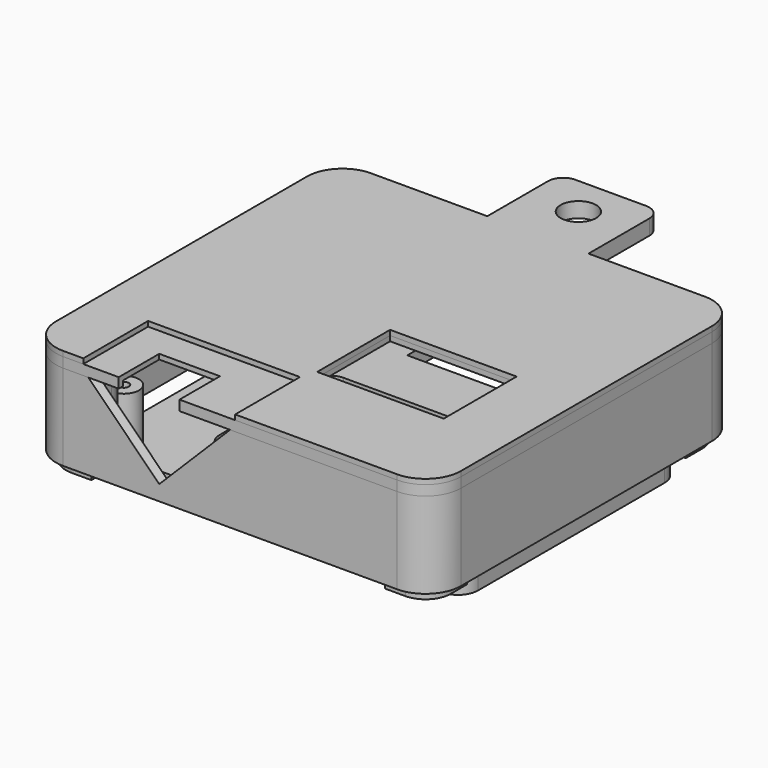
from build123d import *

# Parameters (mm, degrees)
PAD006_DEPTH         = 3
SKETCH008_R          = 3
SKETCH008_R_2        = 1
PAD007_DEPTH         = 10
PAD013_DEPTH         = 3
SKETCH021_R          = 3.5
PAD014_DEPTH         = 3
BOX001_W             = 3
BOX001_H             = 3
BOX001_DEPTH         = 10
PAD008_DEPTH         = 2
PAD009_DEPTH         = 18
SKETCH014_W          = 25
SKETCH014_H          = 18
POCKET002_DEPTH      = 2
POCKET003_DEPTH      = 2
PAD_DEPTH            = 20
SKETCH018_R          = 1.5
POCKET004_DEPTH      = 10
CYLINDER_R           = 5
CYLINDER_DEPTH       = 5
SKETCH019_R          = 3.5
PAD012_DEPTH         = 3
BOX_W                = 30
BOX_H                = 16
BOX_DEPTH            = 2
SKETCH011_R          = 1
PAD010_DEPTH         = 1
PAD011_DEPTH         = 1
SKETCH013_W          = 25
SKETCH013_H          = 18
POCKET_DEPTH         = 1.001
POCKET_DEPTH_BACK    = -1.001
SKETCH_W             = 12
SKETCH_H             = 12
POCKET001_DEPTH      = 1.001
POCKET001_DEPTH_BACK = -1.001


with BuildPart() as base:
    # Sketch007 → Pad006 (new body)
    with BuildSketch(Plane.XY):
        with BuildLine():
            Line((-37, 23), (-37, -23))
            ThreePointArc((-37, -23), (-35.828427, -25.828427), (-33, -27))
            Line((-33, -27), (33, -27))
            ThreePointArc((33, -27), (35.828427, -25.828427), (37, -23))
            Line((37, -23), (37, 23))
            ThreePointArc((37, 23), (35.828427, 25.828427), (33, 27))
            Line((33, 27), (-33, 27))
            ThreePointArc((-33, 27), (-35.828427, 25.828427), (-37, 23))
        make_face()
        with BuildLine():
            Line((-23, 12), (-23, -12))
            ThreePointArc((-23, -12), (-22.12132, -14.12132), (-20, -15))
            Line((-20, -15), (20, -15))
            ThreePointArc((20, -15), (22.12132, -14.12132), (23, -12))
            Line((23, -12), (23, 12))
            ThreePointArc((23, 12), (22.12132, 14.12132), (20, 15))
            Line((20, 15), (-20, 15))
            ThreePointArc((-20, 15), (-22.12132, 14.12132), (-23, 12))
        make_face(mode=Mode.SUBTRACT)
    extrude(amount=-PAD006_DEPTH)

    # Sketch008 → Pad007 (join)
    with BuildSketch(Plane.XY):
        with Locations((-33, 23)):
            Circle(SKETCH008_R)
        with Locations((-33, 23)):
            Circle(SKETCH008_R_2, mode=Mode.SUBTRACT)
        with Locations((33, 23)):
            Circle(SKETCH008_R)
        with Locations((33, 23)):
            Circle(SKETCH008_R_2, mode=Mode.SUBTRACT)
        with Locations((33, -23)):
            Circle(SKETCH008_R)
        with Locations((33, -23)):
            Circle(SKETCH008_R_2, mode=Mode.SUBTRACT)
        with Locations((-33, -23)):
            Circle(SKETCH008_R)
        with Locations((-33, -23)):
            Circle(SKETCH008_R_2, mode=Mode.SUBTRACT)
    extrude(amount=PAD007_DEPTH)

    # Sketch020 → Pad013 (join)
    with BuildSketch(Plane.XY):
        with BuildLine():
            Line((-37, 38), (-37, 23))
            Line((-37, 23), (-17, 23))
            Line((-17, 23), (-17, 38))
            ThreePointArc((-17, 38), (-17.87868, 40.12132), (-20, 41))
            Line((-34, 41), (-20, 41))
            ThreePointArc((-34, 41), (-36.12132, 40.12132), (-37, 38))
        make_face()
    extrude(amount=-PAD013_DEPTH)

    # Sketch021 → Pad014 (join)
    with BuildSketch(Plane.YZ.offset(-34)):
        with BuildLine():
            Line((41, 0), (41, 10))
            ThreePointArc((41, 10), (33.5, 17.5), (26, 10))
            Line((26, 10), (26, 0))
            Line((26, 0), (41, 0))
        make_face()
        with Locations((33.5, 10)):
            Circle(SKETCH021_R, mode=Mode.SUBTRACT)
    extrude(amount=PAD014_DEPTH)

    # Box001 → Box001 (join)
    with BuildSketch(Plane(origin=(-34, 24, 0), x_dir=(1, 0, 0), z_dir=(0, 0, 1))):
        with Locations((1.5, 1.5)):
            Rectangle(BOX001_W, BOX001_H)
    extrude(amount=BOX001_DEPTH)


with BuildPart() as top:
    # Sketch009 → Pad008 (new body)
    with BuildSketch(Plane.XY):
        with BuildLine():
            Line((-40, 31), (-40, -31))
            ThreePointArc((-40, -31), (-37.949747, -35.949747), (-33, -38))
            Line((-33, -38), (33, -38))
            ThreePointArc((33, -38), (37.949747, -35.949747), (40, -31))
            Line((40, -31), (40, 31))
            ThreePointArc((40, 31), (37.949747, 35.949747), (33, 38))
            Line((33, 38), (-33, 38))
            ThreePointArc((-33, 38), (-37.949747, 35.949747), (-40, 31))
        make_face()
    extrude(amount=PAD008_DEPTH)

    # Sketch010 → Pad009 (join)
    with BuildSketch(Plane.XY):
        with BuildLine():
            Line((-40, 31), (-40, -31))
            ThreePointArc((-40, -31), (-37.949747, -35.949747), (-33, -38))
            Line((-33, -38), (33, -38))
            ThreePointArc((33, -38), (37.949747, -35.949747), (40, -31))
            Line((40, -31), (40, 31))
            ThreePointArc((40, 31), (37.949747, 35.949747), (33, 38))
            Line((33, 38), (-33, 38))
            ThreePointArc((-33, 38), (-37.949747, 35.949747), (-40, 31))
        make_face()
        with BuildLine():
            Line((33, 36), (-33, 36))
            ThreePointArc((-33, 36), (-36.535534, 34.535534), (-38, 31))
            Line((-38, 31), (-38, -31))
            ThreePointArc((-38, -31), (-36.535534, -34.535534), (-33, -36))
            Line((-33, -36), (33, -36))
            ThreePointArc((33, -36), (36.535534, -34.535534), (38, -31))
            Line((38, -31), (38, 31))
            ThreePointArc((38, 31), (36.535534, 34.535534), (33, 36))
        make_face(mode=Mode.SUBTRACT)
    extrude(amount=-PAD009_DEPTH)

    # Sketch014 → Pocket002 (cut)
    with BuildSketch(Plane.XY):
        with Locations((14.5, -10)):
            Rectangle(SKETCH014_W, SKETCH014_H)
    extrude(amount=POCKET002_DEPTH, mode=Mode.SUBTRACT)

    # Sketch016 → Pocket003 (cut)
    with BuildSketch(Plane.XZ.offset(38)):
        Polygon((1, 0), (-29, 0), (-14, -15), align=None)
    extrude(amount=-POCKET003_DEPTH, mode=Mode.SUBTRACT)

    # Sketch017 → Pad (join)
    with BuildSketch(Plane.XY):
        with BuildLine():
            ThreePointArc((-33, 27), (-30.171573, 28.171573), (-29, 31))
            Line((-29, 31), (-29, 36))
            Line((-29, 36), (-33, 36))
            ThreePointArc((-33, 36), (-36.535534, 34.535534), (-38, 31))
            Line((-38, 27), (-38, 31))
            Line((-33, 27), (-38, 27))
        make_face()
        with BuildLine():
            ThreePointArc((29, 31), (30.171573, 28.171573), (33, 27))
            Line((33, 27), (38, 27))
            Line((38, 27), (38, 31))
            ThreePointArc((38, 31), (36.535534, 34.535534), (33, 36))
            Line((29, 36), (33, 36))
            Line((29, 31), (29, 36))
        make_face()
        with BuildLine():
            ThreePointArc((33, -27), (30.171573, -28.171573), (29, -31))
            Line((29, -31), (29, -36))
            Line((29, -36), (33, -36))
            ThreePointArc((33, -36), (36.535534, -34.535534), (38, -31))
            Line((38, -31), (38, -27))
            Line((33, -27), (38, -27))
        make_face()
        with BuildLine():
            ThreePointArc((-29, -31), (-30.171573, -28.171573), (-33, -27))
            Line((-33, -27), (-38, -27))
            Line((-38, -27), (-38, -31))
            ThreePointArc((-38, -31), (-36.535534, -34.535534), (-33, -36))
            Line((-29, -36), (-33, -36))
            Line((-29, -31), (-29, -36))
        make_face()
    extrude(amount=-PAD_DEPTH)

    # Sketch018 → Pocket004 (cut)
    with BuildSketch(Plane.XY.offset(-20)):
        with Locations((-33, 31)):
            Circle(SKETCH018_R)
        with Locations((33, 31)):
            Circle(SKETCH018_R)
        with Locations((33, -31)):
            Circle(SKETCH018_R)
        with Locations((-33, -31)):
            Circle(SKETCH018_R)
    extrude(amount=POCKET004_DEPTH, mode=Mode.SUBTRACT)

    # Cylinder → Cylinder (cut)
    with BuildSketch(Plane(origin=(0, 39, -10), x_dir=(1, 0, 0), z_dir=(0, -1, 0))):
        Circle(CYLINDER_R)
    extrude(amount=CYLINDER_DEPTH, mode=Mode.SUBTRACT)

    # Sketch019 → Pad012 (join)
    with BuildSketch(Plane.XY.offset(2)):
        with BuildLine():
            Line((-10, 53), (-10, 38))
            Line((-10, 38), (10, 38))
            Line((10, 38), (10, 53))
            ThreePointArc((10, 53), (9.12132, 55.12132), (7, 56))
            Line((-7, 56), (7, 56))
            ThreePointArc((-7, 56), (-9.12132, 55.12132), (-10, 53))
        make_face()
        with Locations((0, 48)):
            Circle(SKETCH019_R, mode=Mode.SUBTRACT)
    extrude(amount=-PAD012_DEPTH)

    # Box → Box (cut)
    with BuildSketch(Plane(origin=(-29, -38, 0), x_dir=(1, 0, 0), z_dir=(0, 0, 1))):
        with Locations((15, 8)):
            Rectangle(BOX_W, BOX_H)
    extrude(amount=BOX_DEPTH, mode=Mode.SUBTRACT)


with BuildPart() as top_1:
    # Body006 placement: moved
    add(top.part.moved(Location((0, 0, 20))))


with BuildPart() as obj1:
    # Sketch011 → Pad010 (new body)
    with BuildSketch(Plane.XY):
        with BuildLine():
            Line((-40, 31), (-40, -31))
            ThreePointArc((-40, -31), (-37.949747, -35.949747), (-33, -38))
            Line((-33, -38), (33, -38))
            ThreePointArc((33, -38), (37.949747, -35.949747), (40, -31))
            Line((40, -31), (40, 31))
            ThreePointArc((40, 31), (37.949747, 35.949747), (33, 38))
            Line((33, 38), (-33, 38))
            ThreePointArc((-33, 38), (-37.949747, 35.949747), (-40, 31))
        make_face()
        with Locations((-33, 23)):
            Circle(SKETCH011_R, mode=Mode.SUBTRACT)
        with Locations((33, 23)):
            Circle(SKETCH011_R, mode=Mode.SUBTRACT)
        with Locations((33, -23)):
            Circle(SKETCH011_R, mode=Mode.SUBTRACT)
        with Locations((-33, -23)):
            Circle(SKETCH011_R, mode=Mode.SUBTRACT)
    extrude(amount=PAD010_DEPTH)

    # Sketch012 → Pad011 (join)
    with BuildSketch(Plane.XY):
        with BuildLine():
            Line((-40, 31), (-40, -31))
            ThreePointArc((-40, -31), (-37.949747, -35.949747), (-33, -38))
            Line((-33, -38), (33, -38))
            ThreePointArc((33, -38), (37.949747, -35.949747), (40, -31))
            Line((40, -31), (40, 31))
            ThreePointArc((40, 31), (37.949747, 35.949747), (33, 38))
            Line((33, 38), (-33, 38))
            ThreePointArc((-33, 38), (-37.949747, 35.949747), (-40, 31))
        make_face()
        with BuildLine():
            Line((33, 37), (-33, 37))
            ThreePointArc((-33, 37), (-37.242641, 35.242641), (-39, 31))
            Line((-39, 31), (-39, -31))
            ThreePointArc((-39, -31), (-37.242641, -35.242641), (-33, -37))
            Line((-33, -37), (33, -37))
            ThreePointArc((33, -37), (37.242641, -35.242641), (39, -31))
            Line((39, -31), (39, 31))
            ThreePointArc((39, 31), (37.242641, 35.242641), (33, 37))
        make_face(mode=Mode.SUBTRACT)
    extrude(amount=-PAD011_DEPTH)

    # Sketch013 → Pocket (cut, two sides)
    with BuildSketch(Plane.XY) as pocket_sk:
        with Locations((14.5, -10)):
            Rectangle(SKETCH013_W, SKETCH013_H)
    extrude(amount=-POCKET_DEPTH, mode=Mode.SUBTRACT)
    extrude(pocket_sk.sketch, amount=-POCKET_DEPTH_BACK, mode=Mode.SUBTRACT)

    # Sketch → Pocket001 (cut, two sides)
    with BuildSketch(Plane.XY) as pocket001_sk:
        with Locations((-16, -34)):
            Rectangle(SKETCH_W, SKETCH_H)
    extrude(amount=-POCKET001_DEPTH, mode=Mode.SUBTRACT)
    extrude(pocket001_sk.sketch, amount=-POCKET001_DEPTH_BACK, mode=Mode.SUBTRACT)


with BuildPart() as obj1_1:
    # Body007 placement: moved
    add(obj1.part.moved(Location((0, 0, 20))))


solid = Compound([base.part, top_1.part, obj1_1.part])
